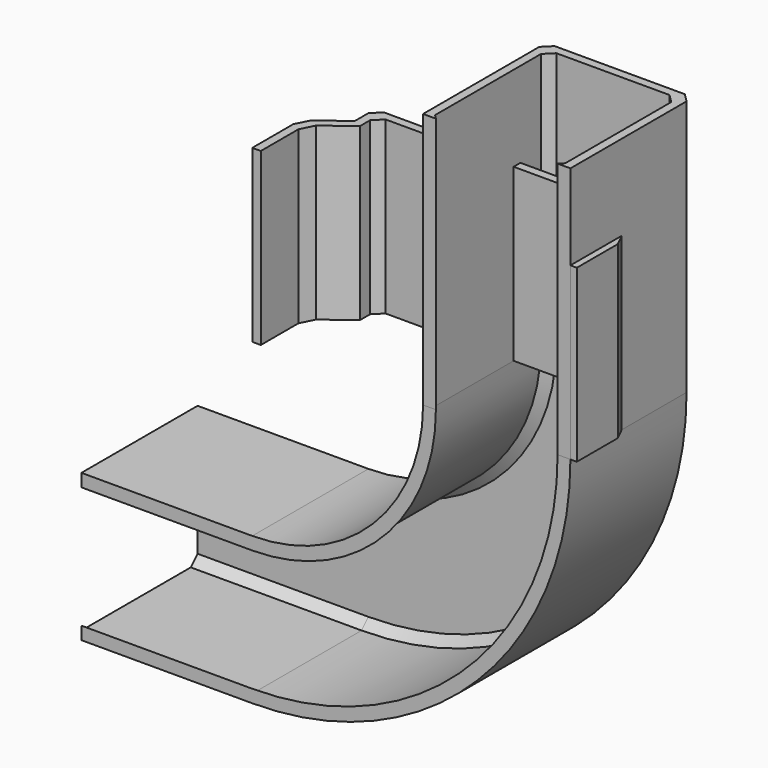
from build123d import *

# Parameters (mm, degrees)
PAD_DEPTH        = 20
CHAMFER_SIZE     = 1
REVOLUTION_ANGLE = 90
PAD001_DEPTH     = 20
PAD002_DEPTH     = 20
CHAMFER001_SIZE  = 1
PAD003_DEPTH     = 30
CHAMFER002_SIZE  = 1


with BuildPart() as clampbody:
    # Sketch → Pad (new body)
    with BuildSketch(Plane.XY):
        Polygon((0, 0), (0, 7), (4, 10), (4, 13), (34, 13), (34, 10), (38, 7), (38, 0), (37, 0), (37, 6.5), (33, 9.5), (33, 12), (5, 12), (5, 9.5), (1, 6.5), (1, 0), align=None)
    extrude(amount=PAD_DEPTH)

    # Chamfer
    chamfer_edges = [clampbody.edges().sort_by_distance(p)[0] for p in [
        (4, 13, 10),
        (0, 7, 10),
        (34, 13, 10),
        (38, 7, 10),
        (1, 6.5, 10),
        (5, 12, 10),
        (33, 12, 10),
        (37, 6.5, 10),
    ]]
    chamfer(chamfer_edges, length=CHAMFER_SIZE)


with BuildPart() as sidecornerbody:
    # Sketch001 → Revolution (revolve)
    with BuildSketch(Plane.XY):
        Polygon((21.5, 0), (21, 0.5), (21, 16), (22, 17), (35.25, 17), (36.25, 16), (36.25, 0.5), (35.75, 0), (37.25, 0), (37.25, 18), (20, 18), (20, 0), align=None)
    revolve(axis=Axis((0, 0, 0), (0, 1, 0)), revolution_arc=REVOLUTION_ANGLE)

    # Binder → Pad001 (new body)
    with BuildSketch(Plane(origin=(0, 11.573016, -28.625), x_dir=(0, -1, 0), z_dir=(1, 0, 0))):
        Polygon((-5.426984, -6.625), (-5.426984, 6.625), (-4.426984, 7.625), (11.073016, 7.625), (11.573016, 7.125), (11.573016, 8.625), (-6.426984, 8.625), (-6.426984, -8.625), (11.573016, -8.625), (11.573016, -7.125), (11.073016, -7.625), (-4.426984, -7.625), align=None)
    extrude(amount=-PAD001_DEPTH)

    # Sketch001 → Pad002 (join)
    with BuildSketch(Plane.XY):
        Polygon((21.5, 0), (21, 0.5), (21, 16), (22, 17), (35.25, 17), (36.25, 16), (36.25, 0.5), (35.75, 0), (37.25, 0), (37.25, 18), (20, 18), (20, 0), align=None)
    extrude(amount=PAD002_DEPTH)

    # Chamfer001
    chamfer001_edges = [sidecornerbody.edges().sort_by_distance(p)[0] for p in [
        (37.25, 18, 10),
        (20, 18, 10),
    ]]
    chamfer(chamfer001_edges, length=CHAMFER001_SIZE)


with BuildPart() as connectorbody:
    # Binder001 → Pad003 (new body)
    with BuildSketch(Plane(origin=(28.625, 11.573016, 0), x_dir=(0, 1, 0), z_dir=(0, 0, 1))):
        Polygon((5.426984, 6.625), (5.426984, -6.625), (4.426984, -7.625), (-11.073016, -7.625), (-11.573016, -7.125), (-11.573016, -8.625), (6.426984, -8.625), (6.426984, 8.625), (-11.573016, 8.625), (-11.573016, 7.125), (-11.073016, 7.625), (4.426984, 7.625), align=None)
    extrude(amount=PAD003_DEPTH)

    # Chamfer002
    chamfer002_edges = [connectorbody.edges().sort_by_distance(p)[0] for p in [
        (20, 18, 15),
        (37.25, 18, 15),
    ]]
    chamfer(chamfer002_edges, length=CHAMFER002_SIZE)


solid = Compound([clampbody.part, sidecornerbody.part, connectorbody.part])
